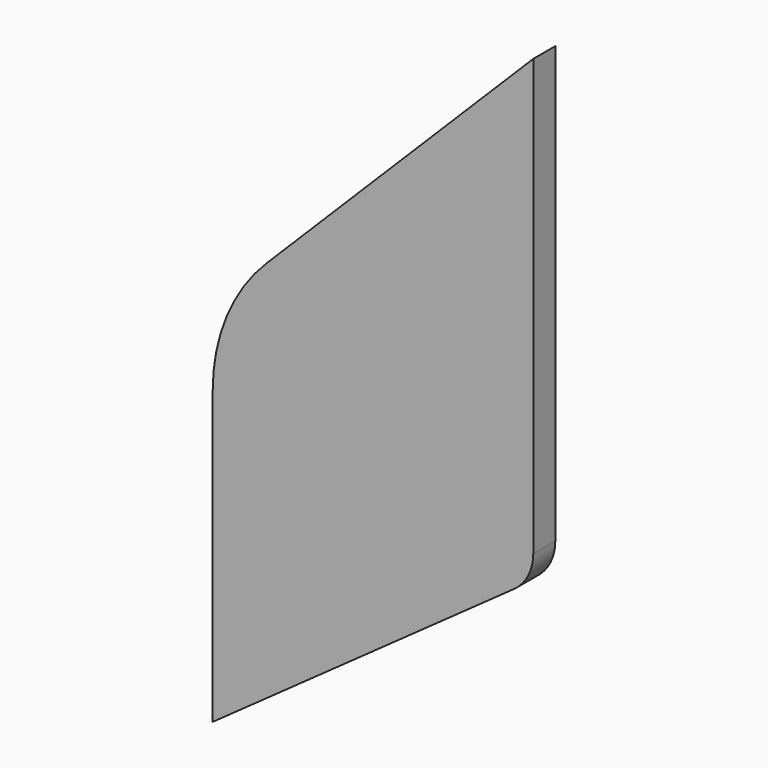
from build123d import *

# Parameters (mm, degrees)
PAD007_DEPTH            = 1.5
FILLET008_R             = 20
FILLET009_R             = 5
BODY008_PLACEMENT_ANGLE = 90


with BuildPart() as part:
    # Sketch012 → Pad007 (new body, symmetric)
    with BuildSketch(Plane.YZ):
        Polygon((27, -2.5), (61.9, -27.4), (61.9, 12.6), (27, 47.5), align=None)
    extrude(amount=PAD007_DEPTH, both=True)

    # Fillet008
    fillet008_edges = [part.edges().sort_by_distance(p)[0] for p in [
        (0, 61.9, 12.6),
    ]]
    fillet(fillet008_edges, radius=FILLET008_R)

    # Fillet009
    fillet009_edges = [part.edges().sort_by_distance(p)[0] for p in [
        (0, 27, -2.5),
    ]]
    fillet(fillet009_edges, radius=FILLET009_R)


with BuildPart() as part_1:
    # Body008 placement: moved
    add(part.part.moved(Location((-30, 0, 0))).rotate(Axis((-30, 0, 0), (0, 0, 1)), BODY008_PLACEMENT_ANGLE))


solid = part_1.part
